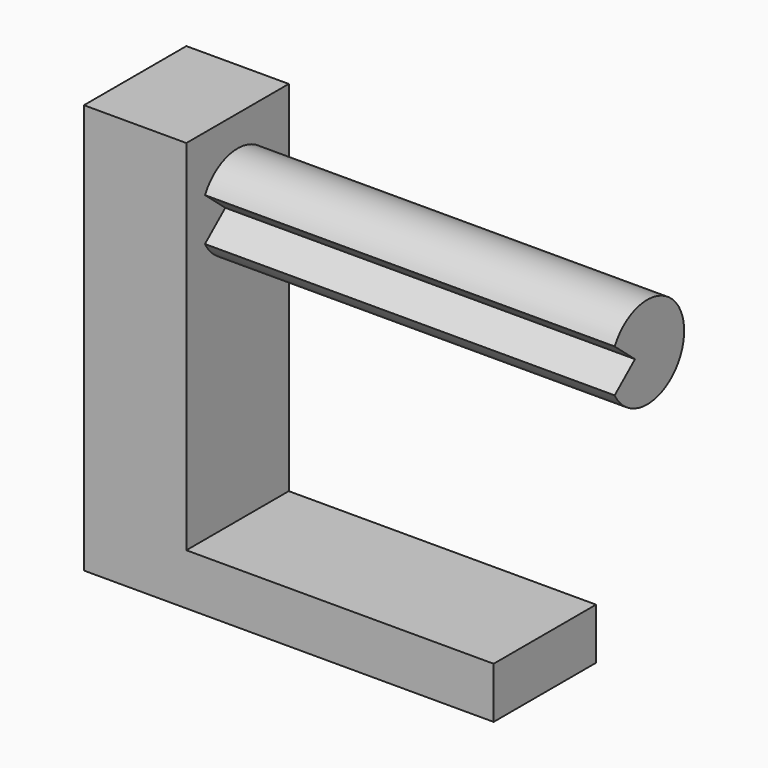
from build123d import *

# Parameters (mm, degrees)
F0_W     = 31.75
F0_H     = 101.6
F1_DEPTH = 25.4
F3_DEPTH = 6.35
F4_R     = 3.175
F5_DEPTH = 3.175
F6_W     = 76.2
F6_H     = 12.7
F7_DEPTH = 31.75
F8_DEPTH = 101.6


with BuildPart() as f1:
    # F0 (on Right) → F1 (new body)
    with BuildSketch(Plane.YZ):
        with Locations((15.875, 50.8)):
            Rectangle(F0_W, F0_H)
    extrude(amount=-F1_DEPTH)

    # F2 (on face) → F3 (cut)
    with BuildSketch(Plane.YZ):
        with BuildLine():
            Line((12.065, 82.55), (5.767917, 77.212232))
            ThreePointArc((5.767917, 77.212232), (27.305, 82.55), (5.767917, 87.887768))
            Line((5.767917, 87.887768), (12.065, 82.55))
        make_face()
    extrude(amount=-F3_DEPTH, mode=Mode.SUBTRACT)

    # F4 (on face) → F5 (cut)
    with BuildSketch(Plane.YZ.offset(-6.35)):
        with Locations((15.875, 82.55)):
            Circle(F4_R)
    extrude(amount=-F5_DEPTH, mode=Mode.SUBTRACT)

    # F6 (on face) → F7 (join)
    with BuildSketch(Plane.XZ):
        with Locations((38.1, 6.35)):
            Rectangle(F6_W, F6_H)
    extrude(amount=-F7_DEPTH)

    # F2 (on face) → F8 (join)
    with BuildSketch(Plane.YZ):
        with BuildLine():
            Line((12.065, 82.55), (5.767917, 77.212232))
            ThreePointArc((5.767917, 77.212232), (27.305, 82.55), (5.767917, 87.887768))
            Line((5.767917, 87.887768), (12.065, 82.55))
        make_face()
    extrude(amount=F8_DEPTH)


solid = f1.part
